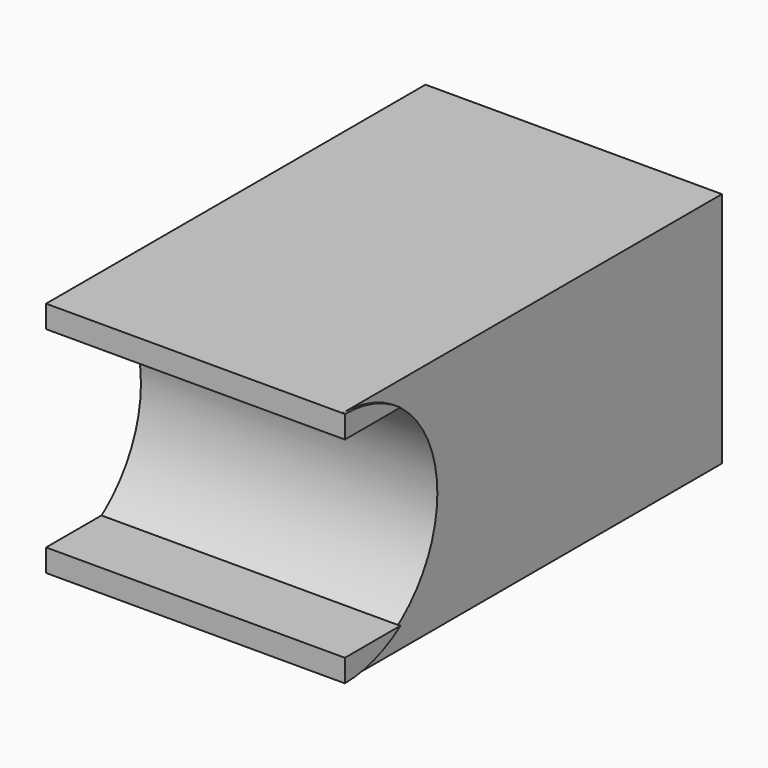
from build123d import *

# Parameters (mm, degrees)
F0_W     = 31.75
F0_H     = 25.4
F1_DEPTH = 50.8
F3_DEPTH = 25.4
F4_DEPTH = 25.4
F6_DEPTH = 32.004


with BuildPart() as f1:
    # F0 (on Front) → F1 (new body)
    with BuildSketch(Plane.XZ):
        with Locations((2.5338130072, 9.369613902)):
            Rectangle(F0_W, F0_H)
    extrude(amount=F1_DEPTH)

    # F2 (on face) → F3 (cut)
    with BuildSketch(Plane(origin=(-13.3411869928, 0, 0), x_dir=(0, -1, 0), z_dir=(-1, 0, 0))):
        with BuildLine():
            Line((38.1, 9.369613902), (50.8, 9.369613902))
            Line((50.8, 9.369613902), (50.8, 22.069613902))
            ThreePointArc((50.8, 22.069613902), (41.8197438789, 18.3498700231), (38.1, 9.369613902))
        make_face()
        with BuildLine():
            Line((50.8, -3.330386098), (50.8, 9.369613902))
            Line((50.8, 9.369613902), (38.1, 9.369613902))
            ThreePointArc((38.1, 9.369613902), (41.8197438789, 0.3893577809), (50.8, -3.330386098))
        make_face()
    extrude(amount=-F3_DEPTH, mode=Mode.SUBTRACT)

    # F4 (cut): a face of the model
    f4_faces = [f1.faces().sort_by_distance(p)[0] for p in [
        (12.0588130072, -45.409952594, 9.369613902),
    ]]
    extrude(f4_faces, amount=-F4_DEPTH, mode=Mode.SUBTRACT)


with BuildPart() as f6:
    # F5 (on face) → F6 (new body)
    with BuildSketch(Plane(origin=(-13.3411869928, 0, 0), x_dir=(0, -1, 0), z_dir=(-1, 0, 0))):
        with BuildLine():
            Line((50.8, 19.6621846408), (50.8, 22.069613902))
            ThreePointArc((50.8, 22.069613902), (46.8901181848, 21.4527767409), (43.3600411569, 19.6621846408))
            Line((43.3600411569, 19.6621846408), (50.8, 19.6621846408))
        make_face()
    extrude(amount=-F6_DEPTH)


with BuildPart() as f6b:
    # F5 (on face) → F6, piece 2 (new body)
    with BuildSketch(Plane(origin=(-13.3411869928, 0, 0), x_dir=(0, -1, 0), z_dir=(-1, 0, 0))):
        with BuildLine():
            Line((50.8, -0.917386098), (43.352340569, -0.917386098))
            ThreePointArc((43.352340569, -0.917386098), (46.8855971081, -2.7120850679), (50.8, -3.330386098))
            Line((50.8, -3.330386098), (50.8, -0.917386098))
        make_face()
    extrude(amount=-F6_DEPTH)


solid = Compound([f1.part, f6.part, f6b.part])
